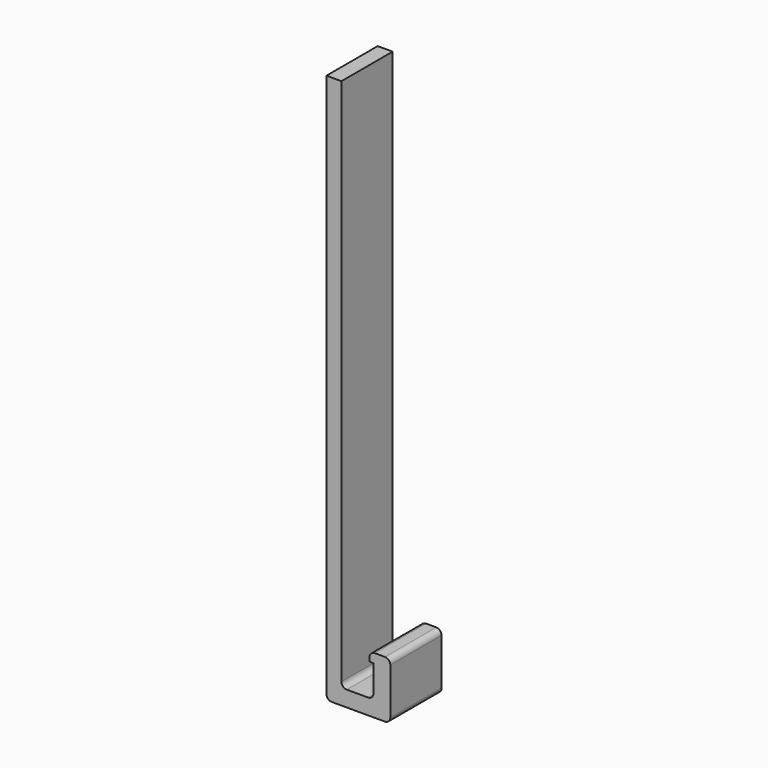
from build123d import *

# Parameters (mm, degrees)
F1_DEPTH = 12


with BuildPart() as f1:
    # F0 (on Front) → F1 (new body)
    with BuildSketch(Plane.XZ):
        with BuildLine():
            Line((2.8, 86.944582), (0, 86.944582))
            Line((0, 86.944582), (0, -13.055418))
            Line((0, -13.055418), (0, -15.004046))
            ThreePointArc((0, -15.004046), (0.292893, -15.711153), (1, -16.004046))
            Line((1, -16.004046), (10.954825, -16.004046))
            ThreePointArc((10.954825, -16.004046), (11.661932, -15.711153), (11.954825, -15.004046))
            Line((11.954825, -15.004046), (11.954825, -13.055418))
            Line((11.954825, -13.055418), (11.954825, -6.332597))
            ThreePointArc((11.954825, -6.332597), (11.661932, -5.62549), (10.954825, -5.332597))
            Line((10.954825, -5.332597), (9.063357, -5.332597))
            ThreePointArc((9.063357, -5.332597), (8.356251, -5.62549), (8.063357, -6.332597))
            Line((8.063357, -6.332597), (8.063357, -7.055418))
            Line((8.063357, -7.055418), (8.8, -7.055418))
            Line((8.8, -7.055418), (8.8, -12.055418))
            ThreePointArc((8.8, -12.055418), (8.507107, -12.762525), (7.8, -13.055418))
            Line((7.8, -13.055418), (3.8, -13.055418))
            ThreePointArc((3.8, -13.055418), (3.092893, -12.762525), (2.8, -12.055418))
            Line((2.8, -12.055418), (2.8, 86.944582))
        make_face()
    extrude(amount=F1_DEPTH)


solid = f1.part
